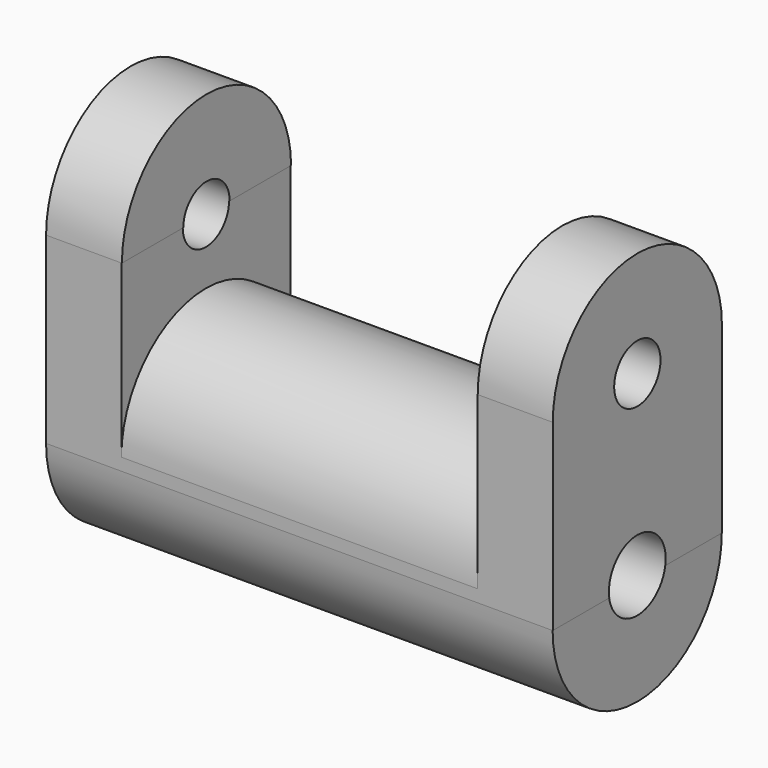
from build123d import *

# Parameters (mm, degrees)
F0_W      = 17.3620246351
F0_H      = 23.728100583
F1_DEPTH  = 1.27
F3_DEPTH  = 113.6904
F4_W      = 79.9476280808
F4_H      = 47.4562011659
F5_DEPTH  = 1.4986
F7_DEPTH  = 79.9338
F8_DEPTH  = 39.878
F10_DEPTH = 17.018
F12_DEPTH = 16.8402
F13_R     = 6.5036466471
F14_DEPTH = 198.628
F15_R     = 7.9715135089
F16_DEPTH = 343.916


with BuildPart() as f1:
    # F0 (on Top) → F1 (new body)
    with BuildSketch(Plane.XY):
        with Locations((-48.1796208769, 11.8640502915)):
            Rectangle(F0_W, F0_H)
        with Locations((-48.1796208769, -11.8640502915)):
            Rectangle(F0_W, F0_H)
        Polygon((39.4986085594, 0), (39.4986085594, 23.728100583), (-39.4986085594, 23.728100583), (-39.4986085594, 0), (-39.4986085594, -23.728100583), (39.4986085594, -23.728100583), align=None)
        with Locations((48.1796208769, 11.8640502915)):
            Rectangle(F0_W, F0_H)
        with Locations((48.1796208769, -11.8640502915)):
            Rectangle(F0_W, F0_H)
    extrude(amount=-F1_DEPTH)

    # F2 (on face) → F3 (join)
    with BuildSketch(Plane(origin=(-56.8606331944, 0, 0), x_dir=(0, -1, 0), z_dir=(-1, 0, 0))):
        with BuildLine():
            Line((23.728100583, -1.27), (-23.728100583, -1.27))
            ThreePointArc((-23.728100583, -1.27), (0, -24.998100583), (23.728100583, -1.27))
        make_face()
    extrude(amount=-F3_DEPTH)

    # F4 (on face) → F5 (join)
    with BuildSketch(Plane.XY):
        Rectangle(F4_W, F4_H)
    extrude(amount=F5_DEPTH)

    # F6 (on face) → F7 (join)
    with BuildSketch(Plane(origin=(-39.9738140404, 0, 0), x_dir=(0, -1, 0), z_dir=(-1, 0, 0))):
        with BuildLine():
            Line((-23.728100583, 1.4986), (23.728100583, 1.4986))
            ThreePointArc((23.728100583, 1.4986), (0, 25.226700583), (-23.728100583, 1.4986))
        make_face()
    extrude(amount=-F7_DEPTH)

    # F8 (add): faces of the model
    f8_faces = [f1.faces().sort_by_distance(p)[0] for p in [
        (-48.4172236174, 0, 0),
        (48.4172236174, 0, 0),
    ]]
    extrude(f8_faces, amount=F8_DEPTH)

    # F9 (on face) → F10 (join)
    with BuildSketch(Plane(origin=(-56.8606331944, 0, 0), x_dir=(0, -1, 0), z_dir=(-1, 0, 0))):
        with BuildLine():
            Line((-23.728100583, 39.878), (23.728100583, 39.878))
            ThreePointArc((23.728100583, 39.878), (0, 63.606100583), (-23.728100583, 39.878))
        make_face()
    extrude(amount=-F10_DEPTH)

    # F11 (on face) → F12 (join)
    with BuildSketch(Plane.YZ.offset(56.8606331944)):
        with BuildLine():
            Line((-23.728100583, 39.878), (23.728100583, 39.878))
            ThreePointArc((23.728100583, 39.878), (0, 63.606100583), (-23.728100583, 39.878))
        make_face()
    extrude(amount=-F12_DEPTH)

    # F13 (on face) → F14 (cut)
    with BuildSketch(Plane(origin=(-56.8606331944, 0, 0), x_dir=(0, -1, 0), z_dir=(-1, 0, 0))):
        with Locations((0, 39.878)):
            Circle(F13_R)
    extrude(amount=-F14_DEPTH, mode=Mode.SUBTRACT)

    # F15 (on face) → F16 (cut)
    with BuildSketch(Plane(origin=(-56.8606331944, 0, 0), x_dir=(0, -1, 0), z_dir=(-1, 0, 0))):
        Circle(F15_R)
    extrude(amount=-F16_DEPTH, mode=Mode.SUBTRACT)


solid = f1.part
